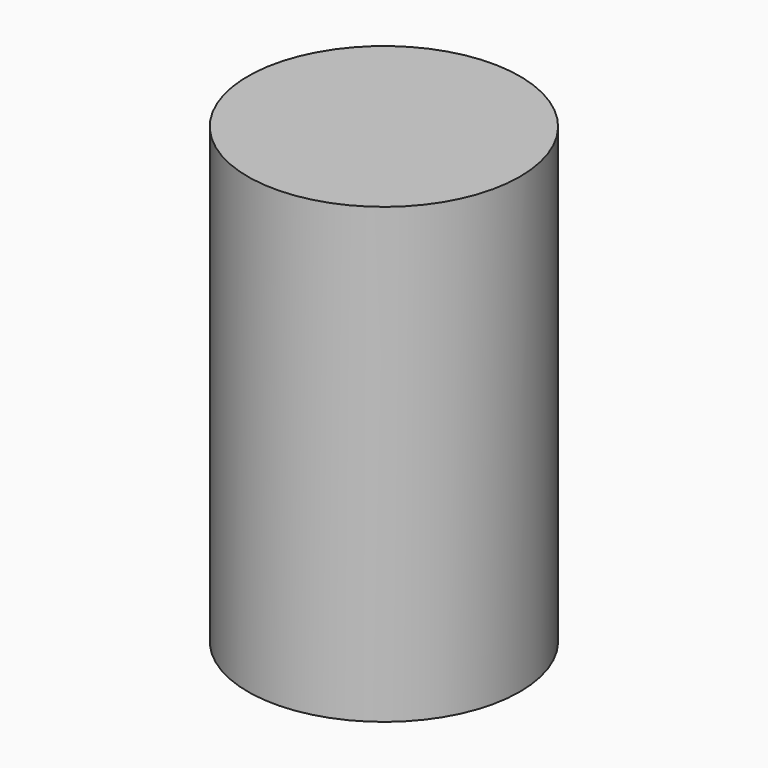
from build123d import *

# Parameters (mm, degrees)
F0_R     = 30
F1_DEPTH = 50
F2_R     = 29
F3_DEPTH = 49


with BuildPart() as f1:
    # F0 (on Top) → F1 (new body, symmetric)
    with BuildSketch(Plane.XY):
        Circle(F0_R)
    extrude(amount=F1_DEPTH, both=True)


with BuildPart() as f3:
    # F2 (on Top) → F3 (new body, symmetric)
    with BuildSketch(Plane.XY):
        Circle(F2_R)
    extrude(amount=F3_DEPTH, both=True)


with BuildPart() as f1_1:
    add(f1.part)

    # F4: cut F3
    add(f3.part, mode=Mode.SUBTRACT)


solid = f1_1.part
